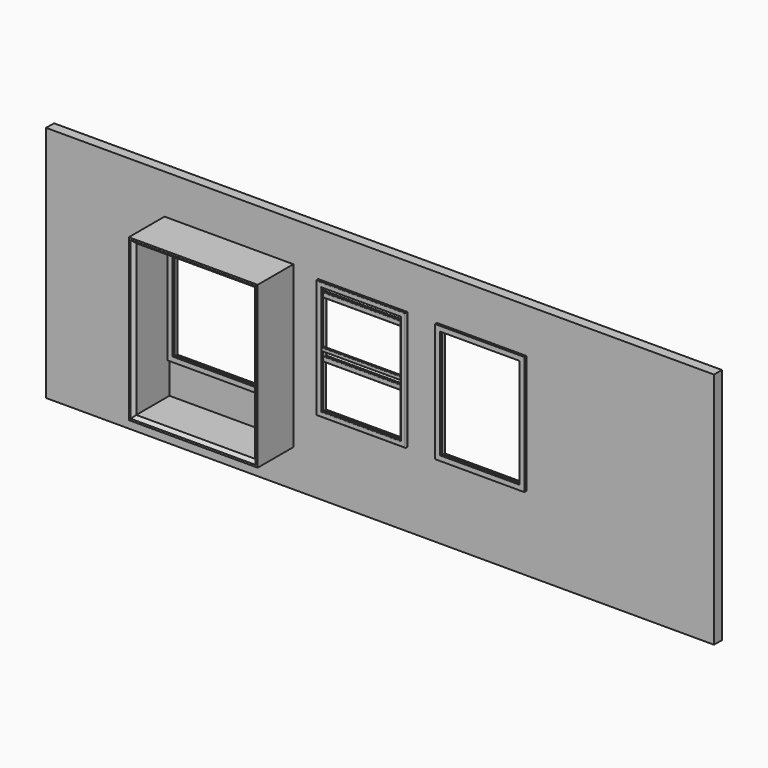
from build123d import *

# Parameters (mm, degrees)
F0_W      = 6846.545637
F0_H      = 2438.4
F0_W_2    = 1219.2
F0_H_2    = 1219.2
F0_W_3    = 914.4
F1_DEPTH  = 101.6
F2_W      = 1320.8
F2_H      = 1651
F2_W_2    = 1219.2
F2_H_2    = 1549.4
F3_DEPTH  = 457.2
F4_W      = 914.4
F4_H      = 1219.2
F4_W_2    = 812.8
F4_H_2    = 1117.6
F4_W_3    = 1219.2
F4_W_4    = 1117.6
F5_DEPTH  = 25.4
F6_R      = 6.35
F7_W      = 812.8
F7_H      = 38.1
F8_DEPTH  = 19.05
F9_R      = 6.35
F10_SIZE  = 31.75
F12_DEPTH = 25.4
F13_R     = 6.35


with BuildPart() as f1:
    # F0 (on Front) → F1 (new body)
    with BuildSketch(Plane.XZ):
        with Locations((1548.886567, 1219.2)):
            Rectangle(F0_W, F0_H)
        with Locations((0, 1371.6)):
            Rectangle(F0_W_2, F0_H_2, mode=Mode.SUBTRACT)
        with Locations((1371.6, 1371.6)):
            Rectangle(F0_W_3, F0_H_2, mode=Mode.SUBTRACT)
        with Locations((2590.8, 1371.6)):
            Rectangle(F0_W_3, F0_H_2, mode=Mode.SUBTRACT)
    extrude(amount=F1_DEPTH)


with BuildPart() as f3:
    # F2 (on face) → F3 (new body)
    with BuildSketch(Plane.XZ.offset(101.6)):
        with Locations((0, 1206.5)):
            Rectangle(F2_W, F2_H)
        with Locations((0, 1206.5)):
            Rectangle(F2_W_2, F2_H_2, mode=Mode.SUBTRACT)
    extrude(amount=F3_DEPTH)

    # F10
    f10_edges = [f3.edges().sort_by_distance(p)[0] for p in [
        (609.6, -558.8, 1206.5),
        (0, -558.8, 1981.2),
        (0, -558.8, 431.8),
        (-609.6, -558.8, 1206.5),
    ]]
    chamfer(f10_edges, length=F10_SIZE)


with BuildPart() as f5:
    # F4 (on face) → F5 (new body)
    with BuildSketch(Plane.XZ.offset(101.6)):
        with Locations((1371.6, 1371.6)):
            Rectangle(F4_W, F4_H)
        with Locations((1371.6, 1371.6)):
            Rectangle(F4_W_2, F4_H_2, mode=Mode.SUBTRACT)
        with Locations((2590.8, 1371.6)):
            Rectangle(F4_W, F4_H)
        with Locations((2590.8, 1371.6)):
            Rectangle(F4_W_2, F4_H_2, mode=Mode.SUBTRACT)
        with Locations((0, 1371.6)):
            Rectangle(F4_W_3, F4_H)
        with Locations((0, 1371.6)):
            Rectangle(F4_W_4, F4_H_2, mode=Mode.SUBTRACT)
    extrude(amount=F5_DEPTH)

    # F6
    f6_edges = [f5.edges().sort_by_distance(p)[0] for p in [
        (1371.6, -127, 1981.2),
        (914.4, -127, 1371.6),
        (1371.6, -127, 762),
        (1828.8, -127, 1371.6),
        (965.2, -127, 1371.6),
        (1371.6, -127, 1930.4),
        (1778, -127, 1371.6),
        (1371.6, -127, 812.8),
    ]]
    fillet(f6_edges, radius=F6_R)

    # F7 (on face) → F8 (join)
    with BuildSketch(Plane(origin=(0, -101.6, 0), x_dir=(-1, 0, 0), z_dir=(0, 1, 0))):
        with Locations((-1371.6, 1371.6)):
            Rectangle(F7_W, F7_H)
    extrude(amount=-F8_DEPTH)

    # F9
    f9_edges = [f5.edges().sort_by_distance(p)[0] for p in [
        (1371.6, -120.65, 1390.65),
        (1371.6, -120.65, 1352.55),
    ]]
    fillet(f9_edges, radius=F9_R)


with BuildPart() as f12:
    # F11 (on face) → F12 (new body)
    with BuildSketch(Plane(origin=(0, -101.6, 0), x_dir=(-1, 0, 0), z_dir=(0, 1, 0))):
        Polygon((-1778, 1879.6), (-1816.1, 1879.6), (-1816.1, 1250.95), (-1778, 1250.95), (-1778, 1352.55), (-1765.3, 1352.55), (-1765.3, 1390.65), (-1778, 1390.65), align=None)
        Polygon((-927.1, 1879.6), (-965.2, 1879.6), (-965.2, 1390.65), (-977.9, 1390.65), (-977.9, 1352.55), (-965.2, 1352.55), (-965.2, 1250.95), (-927.1, 1250.95), align=None)
        Polygon((-1778, 1352.55), (-1778, 1250.95), (-965.2, 1250.95), (-965.2, 1352.55), (-977.9, 1352.55), (-977.9, 1301.75), (-1765.3, 1301.75), (-1765.3, 1352.55), align=None)
        Polygon((-965.2, 1879.6), (-1778, 1879.6), (-1778, 1390.65), (-1765.3, 1390.65), (-1765.3, 1828.8), (-977.9, 1828.8), (-977.9, 1390.65), (-965.2, 1390.65), align=None)
    extrude(amount=F12_DEPTH)

    # F13
    f13_edges = [f12.edges().sort_by_distance(p)[0] for p in [
        (1816.1, -101.6, 1565.275),
        (1371.6, -101.6, 1250.95),
        (927.1, -101.6, 1565.275),
        (1371.6, -101.6, 1879.6),
        (977.9, -101.6, 1565.275),
        (1371.6, -101.6, 1301.75),
        (1765.3, -101.6, 1565.275),
        (1371.6, -101.6, 1828.8),
    ]]
    fillet(f13_edges, radius=F13_R)


solid = Compound([f1.part, f3.part, f5.part, f12.part])
